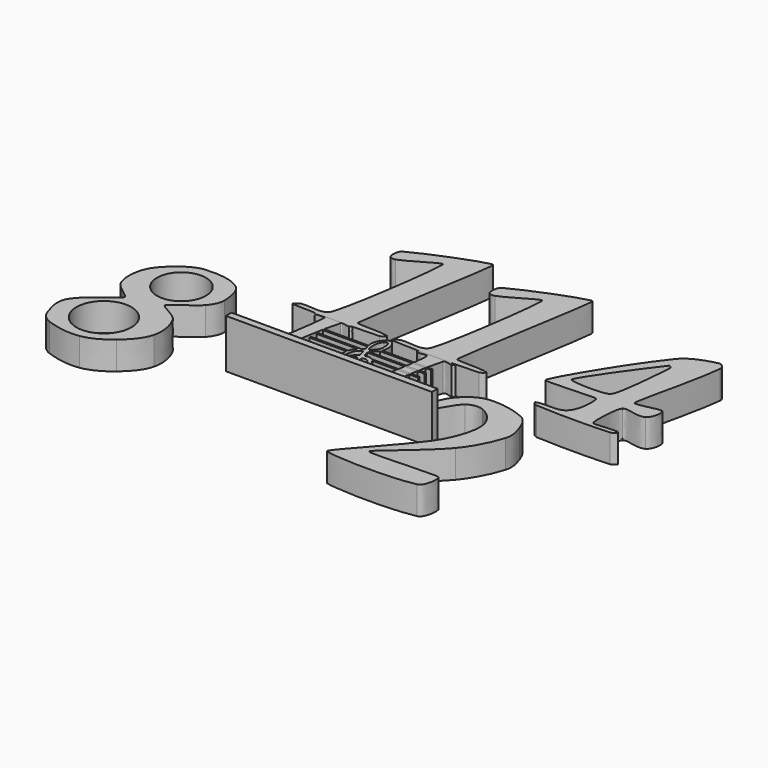
from build123d import *

# Parameters (mm, degrees)
F4_DEPTH = 25.4
F5_DEPTH = 25.4
F1_R     = 24.9308366
F1_R_2   = 22.1971108
F2_W     = 186.8282780051
F2_H     = 44.2998670042
F6_DEPTH = 6.35
F7_DEPTH = 25.4


with BuildPart() as f4:
    # F0 (on Top) → F4 (new body)
    with BuildSketch(Plane.XY):
        with BuildLine():
            add(Edge.make_bspline(
                [(-32.6432462751, 65.6443213622), (-44.1354762751, 66.3625825622), (-55.6949908751, 66.3625825622), (-67.1872462751, 65.6443213622)],
                knots=[0, 0, 0, 0, 1, 1, 1, 1], degree=3))
            add(Edge.make_bspline(
                [(-67.1872462751, 65.6443213622), (-68.1432768751, 65.5845805622), (-66.0956304751, 63.7945409622), (-65.1552208751, 63.6123213622)],
                knots=[0, 0, 0, 0, 1, 1, 1, 1], degree=3))
            add(Edge.make_bspline(
                [(-65.1552208751, 63.6123213622), (-62.3885004751, 63.0762035622), (-57.6574710751, 64.7351791622), (-56.7006530751, 63.6123213622)],
                knots=[0, 0, 0, 0, 1, 1, 1, 1], degree=3))
            add(Edge.make_bspline(
                [(-56.7006530751, 63.6123213622), (-55.7438350751, 62.4894635622), (-61.0956404751, 22.5114129622), (-66.4977886751, 2.6523213622)],
                knots=[0, 0, 0, 0, 1, 1, 1, 1], degree=3))
            add(Edge.make_bspline(
                [(-66.4977886751, 2.6523213622), (-67.0914882751, 0.4698009622), (-71.2034942751, 3.5413721622), (-73.2832462751, 2.6523213622)],
                knots=[0, 0, 0, 0, 1, 1, 1, 1], degree=3))
            add(Edge.make_bspline(
                [(-73.2832462751, 2.6523213622), (-74.1640420751, 2.2758171622), (-72.2083690751, 0.6580149622), (-71.2512208751, 0.6203213622)],
                knots=[0, 0, 0, 0, 1, 1, 1, 1], degree=3))
            add(Edge.make_bspline(
                [(-71.2512208751, 0.6203213622), (-54.7419320751, -0.0298424378), (-24.3738952751, -1.5534868378), (-21.6849242751, 0.6203213622)],
                knots=[0, 0, 0, 0, 1, 1, 1, 1], degree=3))
            add(Edge.make_bspline(
                [(-21.6849242751, 0.6203213622), (-19.8098565819, 2.1361711164), (-18.4581025239, 8.4378642489), (-18.1628819907, 12.4698554388)],
                knots=[0, 0, 0, 0, 0.6973245175, 0.6973245175, 0.6973245175, 0.6973245175], degree=3))
            add(Edge.make_bspline(
                [(-18.1628819966, 12.4698554372), (-19.3981728383, 13.6238819708), (-20.6040058907, 14.8091822158), (-21.7818028483, 16.0185614655)],
                knots=[0.6288524515, 0.6288524515, 0.6288524515, 0.6288524515, 0.9415855382, 0.9415855382, 0.9415855382, 0.9415855382], degree=3))
            add(Edge.make_bspline(
                [(-21.7818028483, 16.0185614655), (-22.4864702455, 15.7501863197), (-23.1208967553, 15.3420315606), (-23.4992208751, 14.8443213622)],
                knots=[0.6379697053, 0.6379697053, 0.6379697053, 0.6379697053, 1, 1, 1, 1], degree=3))
            add(Edge.make_bspline(
                [(-23.4992208751, 14.8443213622), (-25.4041192751, 12.3383065622), (-23.1287618751, 6.8219599622), (-26.0935260751, 5.7642277622)],
                knots=[0, 0, 0, 0, 1, 1, 1, 1], degree=3))
            add(Edge.make_bspline(
                [(-26.0935260751, 5.7642277622), (-34.2728848751, 2.8460471622), (-51.1425488751, 3.5293325622), (-52.1219474751, 4.6325561622)],
                knots=[0, 0, 0, 0, 1, 1, 1, 1], degree=3))
            add(Edge.make_bspline(
                [(-52.1219474751, 4.6325561622), (-53.1013460751, 5.7357543622), (-48.1215744751, 44.5091845622), (-42.4707094751, 63.6123213622)],
                knots=[0, 0, 0, 0, 1, 1, 1, 1], degree=3))
            add(Edge.make_bspline(
                [(-42.4707094751, 63.6123213622), (-41.7336268751, 66.1040867622), (-37.2198944751, 63.0861603622), (-34.6752208751, 63.6123213622)],
                knots=[0, 0, 0, 0, 1, 1, 1, 1], degree=3))
            add(Edge.make_bspline(
                [(-34.6752208751, 63.6123213622), (-33.7371734751, 63.8062757622), (-31.6872156751, 65.5845805622), (-32.6432462751, 65.6443213622)],
                knots=[0, 0, 0, 0, 1, 1, 1, 1], degree=3))
        make_face()
        with BuildLine():
            add(Edge.make_bspline(
                [(-18.1628819966, 12.4698554372), (-19.3981728383, 13.6238819708), (-20.6040058907, 14.8091822158), (-21.7818028483, 16.0185614655)],
                knots=[0.6288524515, 0.6288524515, 0.6288524515, 0.6288524515, 0.9415855382, 0.9415855382, 0.9415855382, 0.9415855382], degree=3))
            add(Edge.make_bspline(
                [(-18.1628819907, 12.4698554388), (-18.0347407665, 14.2199514818), (-18.1056521625, 15.5424320176), (-18.4192208751, 15.8603213622)],
                knots=[0.6973245175, 0.6973245175, 0.6973245175, 0.6973245175, 1, 1, 1, 1], degree=3))
            add(Edge.make_bspline(
                [(-18.4192208751, 15.8603213622), (-19.0801509824, 16.5303583595), (-20.540038117, 16.491492088), (-21.7818028483, 16.0185614655)],
                knots=[0, 0, 0, 0, 0.6379697053, 0.6379697053, 0.6379697053, 0.6379697053], degree=3))
        make_face()
    extrude(amount=F4_DEPTH)


with BuildPart() as f4b:
    # F0 (on Top) → F4, piece 2 (new body)
    with BuildSketch(Plane.XY):
        with BuildLine():
            add(Edge.make_bspline(
                [(35.1863206689, 45.5576819403), (35.0803489887, 44.3192502031), (34.9064911878, 43.0821286278), (34.6733469484, 41.8537417058)],
                knots=[0.3376179857, 0.3376179857, 0.3376179857, 0.3376179857, 0.5341609141, 0.5341609141, 0.5341609141, 0.5341609141], degree=3))
            add(Edge.make_bspline(
                [(34.6733469484, 41.8537417058), (32.8149733843, 28.8095531023), (29.9821658821, 12.683253434), (26.9640855944, 2.2289039355)],
                knots=[0.4712886568, 0.4712886568, 0.4712886568, 0.4712886568, 1, 1, 1, 1], degree=3))
            add(Edge.make_bspline(
                [(26.9640855944, 2.2289039355), (26.2428017944, -0.2695670645), (21.6154297944, 3.0927833355), (19.1626025944, 2.2289039355)],
                knots=[0, 0, 0, 0, 1, 1, 1, 1], degree=3))
            add(Edge.make_bspline(
                [(19.1626025944, 2.2289039355), (18.2590991944, 1.9106927355), (20.2374543944, 0.2338609355), (21.1946533944, 0.1969039355)],
                knots=[0, 0, 0, 0, 1, 1, 1, 1], degree=3))
            add(Edge.make_bspline(
                [(21.1946533944, 0.1969039355), (38.0428543944, -0.4537932645), (69.0879789944, -1.9769042645), (71.7769499944, 0.1969039355)],
                knots=[0, 0, 0, 0, 1, 1, 1, 1], degree=3))
            add(Edge.make_bspline(
                [(71.7769499944, 0.1969039355), (74.4658955944, 2.3707121355), (76.0786431944, 14.3866393355), (75.0426533944, 15.4369039355)],
                knots=[0, 0, 0, 0, 1, 1, 1, 1], degree=3))
            add(Edge.make_bspline(
                [(75.0426533944, 15.4369039355), (74.0066635944, 16.4871685355), (71.0076601944, 15.7956789355), (69.9626533944, 14.4209039355)],
                knots=[0, 0, 0, 0, 1, 1, 1, 1], degree=3))
            add(Edge.make_bspline(
                [(69.9626533944, 14.4209039355), (68.0577549944, 11.9148891355), (70.3331123944, 6.3985425355), (67.3683481944, 5.3408103355)],
                knots=[0, 0, 0, 0, 1, 1, 1, 1], degree=3))
            add(Edge.make_bspline(
                [(67.3683481944, 5.3408103355), (59.1889893944, 2.4226297355), (42.3193253944, 3.1059151355), (41.3399267944, 4.2091387355)],
                knots=[0, 0, 0, 0, 1, 1, 1, 1], degree=3))
            add(Edge.make_bspline(
                [(41.3399267944, 4.2091387355), (40.3605281944, 5.3123369355), (45.3402997944, 44.0857671355), (50.9911647944, 63.1889039355)],
                knots=[0, 0, 0, 0, 1, 1, 1, 1], degree=3))
            add(Edge.make_bspline(
                [(50.9911647944, 63.1889039355), (51.7282473944, 65.6806693355), (56.2419797944, 62.6627429355), (58.7866533944, 63.1889039355)],
                knots=[0, 0, 0, 0, 1, 1, 1, 1], degree=3))
            add(Edge.make_bspline(
                [(58.7866533944, 63.1889039355), (59.7247007944, 63.3828583355), (61.7746331944, 65.1611631355), (60.8186279944, 65.2209039355)],
                knots=[0, 0, 0, 0, 1, 1, 1, 1], degree=3))
            add(Edge.make_bspline(
                [(60.8186279944, 65.2209039355), (49.8606082448, 65.9057756288), (38.8414372483, 65.9376129716), (27.8777540938, 65.3164159639)],
                knots=[0, 0, 0, 0, 0.95351342, 0.95351342, 0.95351342, 0.95351342], degree=3))
            add(Edge.make_bspline(
                [(27.8777540938, 65.3164159639), (28.7224174898, 64.6424291633), (29.5399042024, 63.9042802803), (30.2730549469, 63.0963071754)],
                knots=[0.0094564555, 0.0094564555, 0.0094564555, 0.0094564555, 0.5098637585, 0.5098637585, 0.5098637585, 0.5098637585], degree=3))
            add(Edge.make_bspline(
                [(30.273054947, 63.0963071757), (32.9070296559, 63.2304379456), (36.0069234138, 64.0740975109), (36.7612211944, 63.1889039355)],
                knots=[0.211660127, 0.211660127, 0.211660127, 0.211660127, 1, 1, 1, 1], degree=3))
            add(Edge.make_bspline(
                [(36.7612211944, 63.1889039355), (37.1630463854, 62.7173486869), (36.5062502185, 55.3779092647), (35.1863206689, 45.5576819403)],
                knots=[0, 0, 0, 0, 0.4199598993, 0.4199598993, 0.4199598993, 0.4199598993], degree=3))
        make_face()
        with BuildLine():
            add(Edge.make_bspline(
                [(28.3066533944, 63.1889039355), (28.8922577857, 63.0754291739), (29.5658632387, 63.0602946171), (30.273054947, 63.0963071757)],
                knots=[0, 0, 0, 0, 0.211660127, 0.211660127, 0.211660127, 0.211660127], degree=3))
            add(Edge.make_bspline(
                [(27.8777540938, 65.3164159639), (28.7224174898, 64.6424291633), (29.5399042024, 63.9042802803), (30.2730549469, 63.0963071754)],
                knots=[0.0094564555, 0.0094564555, 0.0094564555, 0.0094564555, 0.5098637585, 0.5098637585, 0.5098637585, 0.5098637585], degree=3))
            add(Edge.make_bspline(
                [(27.8777540938, 65.3164159639), (27.3432423358, 65.2861307851), (26.808862464, 65.2542934423), (26.2746279944, 65.2209039355)],
                knots=[0.95351342, 0.95351342, 0.95351342, 0.95351342, 1, 1, 1, 1], degree=3))
            add(Edge.make_bspline(
                [(26.2746279944, 65.2209039355), (25.3185719944, 65.1611631355), (27.3662437944, 63.3711235355), (28.3066533944, 63.1889039355)],
                knots=[0, 0, 0, 0, 1, 1, 1, 1], degree=3))
        make_face()
    extrude(amount=F4_DEPTH)


with BuildPart() as f5:
    # F1 (on Top) → F5 (new body)
    with BuildSketch(Plane.XY):
        with BuildLine():
            add(Edge.make_bspline(
                [(-33.0519448948, 72.0116292463), (-34.8625330948, 74.3119548463), (-11.6754064948, 199.5780746463), (-13.9607460948, 201.4075350463)],
                knots=[0, 0, 0, 0, 1, 1, 1, 1], degree=3))
            add(Edge.make_bspline(
                [(-13.9607460948, 201.4075350463), (-16.2461110948, 203.2369700463), (-56.7700584948, 187.8922458463), (-76.4535344948, 177.3718198463)],
                knots=[0, 0, 0, 0, 1, 1, 1, 1], degree=3))
            add(Edge.make_bspline(
                [(-76.4535344948, 177.3718198463), (-79.7291946948, 175.6210486463), (-80.0935322948, 170.1558830463), (-79.1559674948, 166.5619862463)],
                knots=[0, 0, 0, 0, 1, 1, 1, 1], degree=3))
            add(Edge.make_bspline(
                [(-79.1559674948, 166.5619862463), (-78.6195448948, 164.5056022463), (-75.1051754948, 163.8205388463), (-73.1075924948, 164.5458358463)],
                knots=[0, 0, 0, 0, 1, 1, 1, 1], degree=3))
            add(Edge.make_bspline(
                [(-73.1075924948, 164.5458358463), (-62.3296104948, 168.4592900463), (-44.7002070948, 181.6612702463), (-42.3397850948, 179.9297522463)],
                knots=[0, 0, 0, 0, 1, 1, 1, 1], degree=3))
            add(Edge.make_bspline(
                [(-42.3397850948, 179.9297522463), (-39.9793630948, 178.1982342463), (-53.9515728948, 77.4586846463), (-59.5848102948, 72.1483066463)],
                knots=[0, 0, 0, 0, 1, 1, 1, 1], degree=3))
            add(Edge.make_bspline(
                [(-59.5848102948, 72.1483066463), (-65.2180476948, 66.8379286463), (-75.4846006948, 71.5699486463), (-83.1882428948, 69.7879862463)],
                knots=[0, 0, 0, 0, 1, 1, 1, 1], degree=3))
            add(Edge.make_bspline(
                [(-83.1882428948, 69.7879862463), (-85.0401568948, 69.3595898463), (-89.1185332948, 65.8583268463), (-87.2204928948, 65.7557362463)],
                knots=[0, 0, 0, 0, 1, 1, 1, 1], degree=3))
            add(Edge.make_bspline(
                [(-87.2204928948, 65.7557362463), (-61.0490694948, 64.3410578463), (-34.7748522948, 64.5801480463), (-8.5915924948, 65.7557362463)],
                knots=[0, 0, 0, 0, 1, 1, 1, 1], degree=3))
            add(Edge.make_bspline(
                [(-8.5915924948, 65.7557362463), (-6.8509558948, 65.8338666463), (-3.2073766948, 69.0202204463), (-4.8954352948, 69.4519696463)],
                knots=[0, 0, 0, 0, 1, 1, 1, 1], degree=3))
            add(Edge.make_bspline(
                [(-4.8954352948, 69.4519696463), (-14.0257446948, 71.7871186463), (-31.2413566948, 69.7113036463), (-33.0519448948, 72.0116292463)],
                knots=[0, 0, 0, 0, 1, 1, 1, 1], degree=3))
        make_face()
    extrude(amount=F5_DEPTH)


with BuildPart() as f5b:
    # F1 (on Top) → F5, piece 2 (new body)
    with BuildSketch(Plane.XY):
        with BuildLine():
            add(Edge.make_bspline(
                [(56.6648574563, 72.4326988088), (54.8542692563, 74.7330244088), (78.0413958563, 199.9991442088), (75.7560562563, 201.8286046088)],
                knots=[0, 0, 0, 0, 1, 1, 1, 1], degree=3))
            add(Edge.make_bspline(
                [(75.7560562563, 201.8286046088), (73.4706912563, 203.6580396088), (32.9467438563, 188.3133154088), (13.2632678563, 177.7928894088)],
                knots=[0, 0, 0, 0, 1, 1, 1, 1], degree=3))
            add(Edge.make_bspline(
                [(13.2632678563, 177.7928894088), (9.9876076563, 176.0421182088), (9.6232700563, 170.5769526088), (10.5608348563, 166.9830558088)],
                knots=[0, 0, 0, 0, 1, 1, 1, 1], degree=3))
            add(Edge.make_bspline(
                [(10.5608348563, 166.9830558088), (11.0972574563, 164.9266718088), (14.6116268563, 164.2416084088), (16.6092098563, 164.9669054088)],
                knots=[0, 0, 0, 0, 1, 1, 1, 1], degree=3))
            add(Edge.make_bspline(
                [(16.6092098563, 164.9669054088), (27.3871918563, 168.8803596088), (45.0165952563, 182.0823398088), (47.3770172563, 180.3508218088)],
                knots=[0, 0, 0, 0, 1, 1, 1, 1], degree=3))
            add(Edge.make_bspline(
                [(47.3770172563, 180.3508218088), (49.7374392563, 178.6193038088), (35.7652294563, 77.8797542088), (30.1319920563, 72.5693762088)],
                knots=[0, 0, 0, 0, 1, 1, 1, 1], degree=3))
            add(Edge.make_bspline(
                [(30.1319920563, 72.5693762088), (24.4987546563, 67.2589982088), (14.2322016563, 71.9910182088), (6.5285594563, 70.2090558088)],
                knots=[0, 0, 0, 0, 1, 1, 1, 1], degree=3))
            add(Edge.make_bspline(
                [(6.5285594563, 70.2090558088), (4.6766454563, 69.7806594088), (0.5982690563, 66.2793964088), (2.4963094563, 66.1768058088)],
                knots=[0, 0, 0, 0, 1, 1, 1, 1], degree=3))
            add(Edge.make_bspline(
                [(2.4963094563, 66.1768058088), (28.6677328563, 64.7621274088), (54.9419500563, 65.0012176088), (81.1252098563, 66.1768058088)],
                knots=[0, 0, 0, 0, 1, 1, 1, 1], degree=3))
            add(Edge.make_bspline(
                [(81.1252098563, 66.1768058088), (82.8658464563, 66.2549362088), (86.5094256563, 69.4412900088), (84.8213670563, 69.8730392088)],
                knots=[0, 0, 0, 0, 1, 1, 1, 1], degree=3))
            add(Edge.make_bspline(
                [(84.8213670563, 69.8730392088), (75.6910576563, 72.2081882088), (58.4754456563, 70.1323732088), (56.6648574563, 72.4326988088)],
                knots=[0, 0, 0, 0, 1, 1, 1, 1], degree=3))
        make_face()
    extrude(amount=F5_DEPTH)


with BuildPart() as f5c:
    # F1 (on Top) → F5, piece 3 (new body)
    with BuildSketch(Plane.XY):
        with BuildLine():
            add(Edge.make_bspline(
                [(205.1756465358, 183.2566057593), (207.9511045358, 183.9096397593), (211.5074347358, 180.0453345593), (211.2240215358, 177.2082053593)],
                knots=[0, 0, 0, 0, 1, 1, 1, 1], degree=3))
            add(Edge.make_bspline(
                [(176.9499219358, 169.1437307593), (183.6466065358, 177.2558049593), (194.9361699358, 180.8473141593), (205.1756465358, 183.2566057593)],
                knots=[0, 0, 0, 0, 1, 1, 1, 1], degree=3))
            add(Edge.make_bspline(
                [(125.2867029358, 86.4825803593), (123.8675795358, 89.0430273593), (156.2643905358, 144.0861735593), (176.9499219358, 169.1437307593)],
                knots=[0, 0, 0, 0, 1, 1, 1, 1], degree=3))
            add(Edge.make_bspline(
                [(171.2375381358, 86.4826057593), (169.3453397358, 88.7162817593), (126.7058263358, 83.9221587593), (125.2867029358, 86.4825803593)],
                knots=[0, 0, 0, 0, 1, 1, 1, 1], degree=3))
            add(Edge.make_bspline(
                [(166.8692715358, 60.2729553593), (173.0383219358, 66.6282893593), (173.1297619358, 84.2489297593), (171.2375381358, 86.4826057593)],
                knots=[0, 0, 0, 0, 1, 1, 1, 1], degree=3))
            add(Edge.make_bspline(
                [(141.2799399358, 55.6203611593), (149.4275995358, 58.5831441593), (160.8307771358, 54.0521143593), (166.8692715358, 60.2729553593)],
                knots=[0, 0, 0, 0, 1, 1, 1, 1], degree=3))
            add(Edge.make_bspline(
                [(144.6919219358, 52.2084553593), (143.0854227358, 52.2868397593), (139.7683859358, 55.0707051593), (141.2799399358, 55.6203611593)],
                knots=[0, 0, 0, 0, 1, 1, 1, 1], degree=3))
            add(Edge.make_bspline(
                [(211.2240215358, 52.2084553593), (189.0827907358, 50.9432559593), (166.8429571358, 51.1279393593), (144.6919219358, 52.2084553593)],
                knots=[0, 0, 0, 0, 1, 1, 1, 1], degree=3))
            add(Edge.make_bspline(
                [(215.2562207358, 56.2407307593), (217.1125035358, 55.8317145593), (213.1217571358, 52.3169133593), (211.2240215358, 52.2084553593)],
                knots=[0, 0, 0, 0, 1, 1, 1, 1], degree=3))
            add(Edge.make_bspline(
                [(192.9238295358, 56.2407053593), (194.9128527358, 54.0928051593), (207.9864613358, 57.8425309593), (215.2562207358, 56.2407307593)],
                knots=[0, 0, 0, 0, 1, 1, 1, 1], degree=3))
            add(Edge.make_bspline(
                [(195.2501139358, 86.4826057593), (192.0524317358, 83.5214483593), (190.9348063358, 58.3886055593), (192.9238295358, 56.2407053593)],
                knots=[0, 0, 0, 0, 1, 1, 1, 1], degree=3))
            add(Edge.make_bspline(
                [(216.2643721358, 86.4825803593), (210.2183593358, 82.9453255593), (198.4477961358, 89.4437377593), (195.2501139358, 86.4826057593)],
                knots=[0, 0, 0, 0, 1, 1, 1, 1], degree=3))
            add(Edge.make_bspline(
                [(219.8645427358, 100.8834659593), (221.7909549358, 98.6792285593), (220.5351535358, 88.9812545593), (216.2643721358, 86.4825803593)],
                knots=[0, 0, 0, 0, 1, 1, 1, 1], degree=3))
            add(Edge.make_bspline(
                [(196.6898875358, 98.3085155593), (198.6845495358, 96.1658477593), (217.9381305358, 103.0877287593), (219.8645427358, 100.8834659593)],
                knots=[0, 0, 0, 0, 1, 1, 1, 1], degree=3))
            add(Edge.make_bspline(
                [(211.2240215358, 177.2082053593), (208.5658607358, 150.5982509593), (194.6952001358, 100.4512087593), (196.6898875358, 98.3085155593)],
                knots=[0, 0, 0, 0, 1, 1, 1, 1], degree=3))
        make_face()
        with BuildLine():
            add(Edge.make_bspline(
                [(139.2915771358, 98.5793303593), (137.9208407358, 101.1660155593), (165.0661001358, 139.2422411593), (179.7810313358, 158.2480451593)],
                knots=[0, 0, 0, 0, 1, 1, 1, 1], degree=3))
            add(Edge.make_bspline(
                [(179.7810313358, 158.2480451593), (180.7095029358, 159.4472299593), (183.1285989358, 156.5418509593), (182.9982969358, 155.0308557593)],
                knots=[0, 0, 0, 0, 1, 1, 1, 1], degree=3))
            add(Edge.make_bspline(
                [(182.9982969358, 155.0308557593), (181.3638069358, 136.0786457593), (178.9269563358, 102.2821931593), (174.6350929358, 98.5793303593)],
                knots=[0, 0, 0, 0, 1, 1, 1, 1], degree=3))
            add(Edge.make_bspline(
                [(174.6350929358, 98.5793303593), (170.3432549358, 94.8764675593), (140.6623135358, 95.9926705593), (139.2915771358, 98.5793303593)],
                knots=[0, 0, 0, 0, 1, 1, 1, 1], degree=3))
        make_face(mode=Mode.SUBTRACT)
    extrude(amount=F5_DEPTH)


with BuildPart() as f5d:
    # F1 (on Top) → F5, piece 4 (new body)
    with BuildSketch(Plane.XY):
        with BuildLine():
            add(Edge.make_bspline(
                [(-168.7701688087, 68.1581004942), (-157.8623420087, 68.9971386942), (-145.4745842087, 68.3834238942), (-136.5121688087, 62.1097254942)],
                knots=[0, 0, 0, 0, 1, 1, 1, 1], degree=3))
            add(Edge.make_bspline(
                [(-188.9313934087, 58.0774500942), (-183.1313796087, 62.8539454942), (-176.2616702087, 67.5818252942), (-168.7701688087, 68.1581004942)],
                knots=[0, 0, 0, 0, 1, 1, 1, 1], degree=3))
            add(Edge.make_bspline(
                [(-203.0442684087, 39.9323250942), (-200.6212100087, 47.2015764942), (-194.8462914087, 53.2063904942), (-188.9313934087, 58.0774500942)],
                knots=[0, 0, 0, 0, 1, 1, 1, 1], degree=3))
            add(Edge.make_bspline(
                [(-203.0442684087, 15.7388250942), (-206.0393602087, 23.2265418942), (-205.5945046087, 32.2816926942), (-203.0442684087, 39.9323250942)],
                knots=[0, 0, 0, 0, 1, 1, 1, 1], degree=3))
            add(Edge.make_bspline(
                [(-186.9152938087, -0.3901495058), (-186.8648240087, 2.5368194942), (-200.2204996087, 8.6793776942), (-203.0442684087, 15.7388250942)],
                knots=[0, 0, 0, 0, 1, 1, 1, 1], degree=3))
            add(Edge.make_bspline(
                [(-217.1571688087, -28.6159249058), (-210.6197168087, -16.4749789058), (-186.9657382087, -3.3171439058), (-186.9152938087, -0.3901495058)],
                knots=[0, 0, 0, 0, 1, 1, 1, 1], degree=3))
            add(Edge.make_bspline(
                [(-215.1410184087, -52.8093995058), (-217.8343582087, -45.1782997058), (-220.9937880087, -35.7410821058), (-217.1571688087, -28.6159249058)],
                knots=[0, 0, 0, 0, 1, 1, 1, 1], degree=3))
            add(Edge.make_bspline(
                [(-205.0604188087, -62.8900245058), (-209.5456778087, -61.3202029058), (-213.5594620087, -57.2905437058), (-215.1410184087, -52.8093995058)],
                knots=[0, 0, 0, 0, 1, 1, 1, 1], degree=3))
            add(Edge.make_bspline(
                [(-174.8185438087, -66.9222999058), (-184.8785694087, -68.4126703058), (-195.4615302087, -66.2496571058), (-205.0604188087, -62.8900245058)],
                knots=[0, 0, 0, 0, 1, 1, 1, 1], degree=3))
            add(Edge.make_bspline(
                [(-150.6250184087, -54.8255499058), (-157.4949818087, -60.6649845058), (-165.8994862087, -65.6009411058), (-174.8185438087, -66.9222999058)],
                knots=[0, 0, 0, 0, 1, 1, 1, 1], degree=3))
            add(Edge.make_bspline(
                [(-134.4960438087, -32.6481495058), (-136.7129812087, -41.5160007058), (-143.6603384087, -48.9055465058), (-150.6250184087, -54.8255499058)],
                knots=[0, 0, 0, 0, 1, 1, 1, 1], degree=3))
            add(Edge.make_bspline(
                [(-138.5282684087, -6.4385245058), (-134.2684344087, -14.1836957058), (-132.3521822087, -24.0727539058), (-134.4960438087, -32.6481495058)],
                knots=[0, 0, 0, 0, 1, 1, 1, 1], degree=3))
            add(Edge.make_bspline(
                [(-156.6733934087, 7.6743250942), (-156.6372746087, 4.7471528942), (-142.2209712087, 0.2754320942), (-138.5282684087, -6.4385245058)],
                knots=[0, 0, 0, 0, 1, 1, 1, 1], degree=3))
            add(Edge.make_bspline(
                [(-134.4960438087, 25.8194754942), (-140.7857442087, 18.6312246942), (-156.7095376087, 10.6015226942), (-156.6733934087, 7.6743250942)],
                knots=[0, 0, 0, 0, 1, 1, 1, 1], degree=3))
            add(Edge.make_bspline(
                [(-128.4476688087, 39.9323250942), (-128.1637476087, 34.8220990942), (-131.1257178087, 29.6712330942), (-134.4960438087, 25.8194754942)],
                knots=[0, 0, 0, 0, 1, 1, 1, 1], degree=3))
            add(Edge.make_bspline(
                [(-136.5121688087, 62.1097254942), (-130.0680364087, 57.5988378942), (-128.8839900087, 47.7862844942), (-128.4476688087, 39.9323250942)],
                knots=[0, 0, 0, 0, 1, 1, 1, 1], degree=3))
        make_face()
        with Locations((-179.1020760087, -33.6361587058)):
            Circle(F1_R, mode=Mode.SUBTRACT)
        with Locations((-165.4273002087, 37.1542000942)):
            Circle(F1_R_2, mode=Mode.SUBTRACT)
    extrude(amount=F5_DEPTH)


with BuildPart() as f5e:
    # F1 (on Top) → F5, piece 5 (new body)
    with BuildSketch(Plane.XY):
        with BuildLine():
            add(Edge.make_bspline(
                [(112.4776736052, 37.8084045909), (124.0079782052, 39.0895297909), (136.1904278052, 36.5606549909), (146.7518240052, 31.7600041909)],
                knots=[0, 0, 0, 0, 1, 1, 1, 1], degree=3))
            add(Edge.make_bspline(
                [(92.3164236052, 25.7116545909), (97.3337364052, 31.7324197909), (104.6883318052, 36.9428995909), (112.4776736052, 37.8084045909)],
                knots=[0, 0, 0, 0, 1, 1, 1, 1], degree=3))
            add(Edge.make_bspline(
                [(82.2358240052, 1.5181545909), (83.5642694052, 10.1530877909), (86.7234452052, 19.0000347909), (92.3164236052, 25.7116545909)],
                knots=[0, 0, 0, 0, 1, 1, 1, 1], degree=3))
            add(Edge.make_bspline(
                [(88.2841990052, -0.4979704091), (86.7116850052, -1.9275332091), (81.9126598052, -0.5823238091), (82.2358240052, 1.5181545909)],
                knots=[0, 0, 0, 0, 1, 1, 1, 1], degree=3))
            add(Edge.make_bspline(
                [(104.4131736052, 21.6794045909), (97.2754434052, 15.9692051909), (95.0477872052, 5.6507599909), (88.2841990052, -0.4979704091)],
                knots=[0, 0, 0, 0, 1, 1, 1, 1], degree=3))
            add(Edge.make_bspline(
                [(118.5260486052, 23.6955295909), (114.1582392052, 25.5674333909), (108.1239104052, 24.6479787909), (104.4131736052, 21.6794045909)],
                knots=[0, 0, 0, 0, 1, 1, 1, 1], degree=3))
            add(Edge.make_bspline(
                [(132.6389490052, 9.5826545909), (130.1058578052, 15.7344075909), (124.6410224052, 21.0748337909), (118.5260486052, 23.6955295909)],
                knots=[0, 0, 0, 0, 1, 1, 1, 1], degree=3))
            add(Edge.make_bspline(
                [(132.6389490052, -10.5785954091), (134.3353134052, -4.0758144091), (135.1977450052, 3.3684175909), (132.6389490052, 9.5826545909)],
                knots=[0, 0, 0, 0, 1, 1, 1, 1], degree=3))
            add(Edge.make_bspline(
                [(120.5421990052, -36.7882204091), (126.1128508052, -28.9425922091), (130.2100994052, -19.8891940091), (132.6389490052, -10.5785954091)],
                knots=[0, 0, 0, 0, 1, 1, 1, 1], degree=3))
            add(Edge.make_bspline(
                [(72.5152186052, -95.2558708091), (71.2641670052, -92.6092416091), (105.9405264052, -57.3529748091), (120.5421990052, -36.7882204091)],
                knots=[0, 0, 0, 0, 1, 1, 1, 1], degree=3))
            add(Edge.make_bspline(
                [(154.2402774052, -95.2558708091), (127.5736048052, -100.8233984091), (73.7662448052, -97.9025000091), (72.5152186052, -95.2558708091)],
                knots=[0, 0, 0, 0, 1, 1, 1, 1], degree=3))
            add(Edge.make_bspline(
                [(159.4245952052, -77.1107204091), (161.1874568052, -79.4478252091), (160.3979232052, -93.9702498091), (154.2402774052, -95.2558708091)],
                knots=[0, 0, 0, 0, 1, 1, 1, 1], degree=3))
            add(Edge.make_bspline(
                [(96.2478864052, -77.1107458091), (97.3350826052, -79.8287744091), (157.6617082052, -74.7736410091), (159.4245952052, -77.1107204091)],
                knots=[0, 0, 0, 0, 1, 1, 1, 1], degree=3))
            add(Edge.make_bspline(
                [(140.7034490052, -34.7721208091), (127.7552910052, -50.6184696091), (95.1606648052, -74.3926918091), (96.2478864052, -77.1107458091)],
                knots=[0, 0, 0, 0, 1, 1, 1, 1], degree=3))
            add(Edge.make_bspline(
                [(158.8485740052, -0.4979704091), (155.0469306052, -12.8533178091), (148.8828332052, -24.7619046091), (140.7034490052, -34.7721208091)],
                knots=[0, 0, 0, 0, 1, 1, 1, 1], degree=3))
            add(Edge.make_bspline(
                [(156.8324236052, 17.6471291909), (158.9692240052, 11.9490201909), (160.6382580052, 5.3185025909), (158.8485740052, -0.4979704091)],
                knots=[0, 0, 0, 0, 1, 1, 1, 1], degree=3))
            add(Edge.make_bspline(
                [(146.7518240052, 31.7600041909), (152.0147548052, 29.3677813909), (154.8025572052, 23.0601739909), (156.8324236052, 17.6471291909)],
                knots=[0, 0, 0, 0, 1, 1, 1, 1], degree=3))
        make_face()
    extrude(amount=F5_DEPTH)


with BuildPart() as f6:
    # F2 (on Front) → F6 (new body)
    with BuildSketch(Plane.XZ):
        with Locations((3.1736679375, 22.1499335021)):
            Rectangle(F2_W, F2_H)
    extrude(amount=F6_DEPTH)


with BuildPart() as f7:
    # F3 (on Top) → F7 (new body)
    with BuildSketch(Plane.XY):
        with BuildLine():
            Line((-45.7475744188, 47.8342100978), (-5.3054494783, 47.8342100978))
            add(Edge.make_bspline(
                [(-5.3054494783, 47.8342100978), (-5.3850890997, 48.4239257044), (-5.4929617028, 48.9751349544), (-5.6020469496, 49.5116189122)],
                knots=[0, 0, 0, 0, 0.0426605521, 0.0426605521, 0.0426605521, 0.0426605521], degree=3))
            Line((-5.6020469496, 49.5116189122), (-45.7475744188, 49.5116189122))
            Line((-45.7475744188, 49.5116189122), (-45.7475744188, 47.8342100978))
        make_face()
        with BuildLine():
            Line((-2.6859711354, 47.8342100978), (-5.3054494783, 47.8342100978))
            add(Edge.make_bspline(
                [(-5.3054494783, 47.8342100978), (-3.7335010548, 44.0209195582), (-4.4099408043, 43.8634679662), (-6.1301567721, 42.6065711263), (-6.6136083481, 42.2105565667)],
                knots=[0, 0, 0, 0, 0.1449805571, 0.1959886185, 0.1959886185, 0.1959886185, 0.1959886185], degree=3))
            Line((-6.6136083481, 42.2105565667), (0.2257280477, 42.2105565667))
            add(Edge.make_bspline(
                [(6.3266797342, 47.8342100978), (6.121518698, 47.4056326224), (4.6244807745, 44.8055738122), (2.4926460483, 44.5770012536), (0.2257280477, 42.2105565667)],
                knots=[0.7903888115, 0.7903888115, 0.7903888115, 0.7903888115, 0.8206802612, 0.9942756991, 0.9942756991, 0.9942756991, 0.9942756991], degree=3))
            Line((6.3266797342, 47.8342100978), (2.3773211441, 47.8342100978))
            add(Edge.make_bspline(
                [(-2.6859711354, 47.8342100978), (-2.4862501748, 46.427415348), (-1.6554035664, 43.4504141959), (1.153975862, 46.3579674892), (2.3241833168, 47.7693921169), (2.3773211441, 47.8342100978)],
                knots=[0.3369724858, 0.3369724858, 0.3369724858, 0.3369724858, 0.4326938229, 0.5660101239, 0.5724841887, 0.5724841887, 0.5724841887, 0.5724841887], degree=3))
        make_face()
        with BuildLine():
            add(Edge.make_bspline(
                [(-5.3054494783, 47.8342100978), (-5.3850890997, 48.4239257044), (-5.4929617028, 48.9751349544), (-5.6020469496, 49.5116189122)],
                knots=[0, 0, 0, 0, 0.0426605521, 0.0426605521, 0.0426605521, 0.0426605521], degree=3))
            Line((-5.3054494783, 47.8342100978), (-2.6859711354, 47.8342100978))
            add(Edge.make_bspline(
                [(-2.8639047037, 49.5116189122), (-2.8198394655, 48.9616558041), (-2.7642298061, 48.3854486199), (-2.6859711354, 47.8342100978)],
                knots=[0.2994650324, 0.2994650324, 0.2994650324, 0.2994650324, 0.3369724858, 0.3369724858, 0.3369724858, 0.3369724858], degree=3))
            Line((-2.8639047037, 49.5116189122), (-5.6020469496, 49.5116189122))
        make_face()
        with BuildLine():
            add(Edge.make_bspline(
                [(-5.6020469496, 49.5116189122), (-5.9371940518, 51.1598807001), (-6.8817210551, 55.2728885258), (0.4110962092, 67.7614702344), (8.365919795, 60.3698905158), (7.8634332938, 52.367228559), (6.9755916063, 49.5116189122)],
                knots=[0.0426605521, 0.0426605521, 0.0426605521, 0.0426605521, 0.1737283254, 0.3998427274, 0.5864757638, 0.75464235, 0.75464235, 0.75464235, 0.75464235], degree=3))
            Line((-5.6020469496, 49.5116189122), (-2.8639047037, 49.5116189122))
            add(Edge.make_bspline(
                [(0, 60.0638985634), (-1.325752595, 58.8838380831), (-3.0783165824, 54.9718418338), (-3.0415318587, 51.8317396538), (-2.8734494699, 49.6307438609), (-2.8639047037, 49.5116189122)],
                knots=[0, 0, 0, 0, 0.1477894714, 0.2913407176, 0.2994650324, 0.2994650324, 0.2994650324, 0.2994650324], degree=3))
            add(Edge.make_bspline(
                [(3.5451231653, 49.5116189122), (3.9737021068, 50.3032709628), (4.9063544894, 53.1840458737), (4.2459977554, 62.0872245548), (0.989886312, 60.9450024143), (0, 60.0638985634)],
                knots=[0.629729814, 0.629729814, 0.629729814, 0.629729814, 0.708676325, 0.8896515267, 1, 1, 1, 1], degree=3))
            Line((3.5451231653, 49.5116189122), (6.9755916063, 49.5116189122))
        make_face()
        with BuildLine():
            Line((0.2257280477, 42.2105565667), (-6.6136083481, 42.2105565667))
            add(Edge.make_bspline(
                [(-6.6136083481, 42.2105565667), (-7.1831729428, 41.7440033828), (-7.8023541401, 41.1818271588), (-8.4139968638, 40.5331477523)],
                knots=[0.1959886185, 0.1959886185, 0.1959886185, 0.1959886185, 0.2560823016, 0.2560823016, 0.2560823016, 0.2560823016], degree=3))
            Line((-8.4139968638, 40.5331477523), (0.2792187765, 40.5331477523))
            add(Edge.make_bspline(
                [(0, 41.9692322612), (0.0868971318, 41.5130839536), (0.1789940392, 41.0266901278), (0.2792187765, 40.5331477523)],
                knots=[0, 0, 0, 0, 0.0344863732, 0.0344863732, 0.0344863732, 0.0344863732], degree=3))
            add(Edge.make_bspline(
                [(0.2257280477, 42.2105565667), (0.1509765391, 42.1325231706), (0.0757337564, 42.0521282396), (0, 41.9692322612)],
                knots=[0.9942756991, 0.9942756991, 0.9942756991, 0.9942756991, 1, 1, 1, 1], degree=3))
        make_face()
        with BuildLine():
            add(Edge.make_bspline(
                [(-6.6136083481, 42.2105565667), (-7.1831729428, 41.7440033828), (-7.8023541401, 41.1818271588), (-8.4139968638, 40.5331477523)],
                knots=[0.1959886185, 0.1959886185, 0.1959886185, 0.1959886185, 0.2560823016, 0.2560823016, 0.2560823016, 0.2560823016], degree=3))
            Line((-6.6136083481, 42.2105565667), (-45.7810964435, 42.2105565667))
            Line((-45.7810964435, 42.2105565667), (-45.7810964435, 40.5331477523))
            Line((-45.7810964435, 40.5331477523), (-8.4139968638, 40.5331477523))
        make_face()
        with BuildLine():
            Line((52.4619817734, 49.5116189122), (6.9755916063, 49.5116189122))
            add(Edge.make_bspline(
                [(6.9755916063, 49.5116189122), (6.7868668463, 48.9046140229), (6.5687870329, 48.339967608), (6.3266797342, 47.8342100978)],
                knots=[0.75464235, 0.75464235, 0.75464235, 0.75464235, 0.7903888115, 0.7903888115, 0.7903888115, 0.7903888115], degree=3))
            Line((6.3266797342, 47.8342100978), (52.4619817734, 47.8342100978))
            Line((52.4619817734, 47.8342100978), (52.4619817734, 49.5116189122))
        make_face()
        with BuildLine():
            add(Edge.make_bspline(
                [(6.9755916063, 49.5116189122), (6.7868668463, 48.9046140229), (6.5687870329, 48.339967608), (6.3266797342, 47.8342100978)],
                knots=[0.75464235, 0.75464235, 0.75464235, 0.75464235, 0.7903888115, 0.7903888115, 0.7903888115, 0.7903888115], degree=3))
            Line((6.9755916063, 49.5116189122), (3.5451231653, 49.5116189122))
            add(Edge.make_bspline(
                [(2.3773211441, 47.8342100978), (2.847181766, 48.4073501441), (3.2343523764, 48.9375768666), (3.5451231653, 49.5116189122)],
                knots=[0.5724841887, 0.5724841887, 0.5724841887, 0.5724841887, 0.629729814, 0.629729814, 0.629729814, 0.629729814], degree=3))
            Line((2.3773211441, 47.8342100978), (6.3266797342, 47.8342100978))
        make_face()
        with BuildLine():
            Line((0.2792187765, 40.5331477523), (-8.4139968638, 40.5331477523))
            add(Edge.make_bspline(
                [(-8.4139968638, 40.5331477523), (-9.1544290942, 39.7478802732), (-10.580050051, 37.9652605887), (-11.5761095777, 35.7601631838), (-11.9559417839, 34.6153005958)],
                knots=[0.2560823016, 0.2560823016, 0.2560823016, 0.2560823016, 0.3288295086, 0.39827053, 0.39827053, 0.39827053, 0.39827053], degree=3))
            Line((-11.9559417839, 34.6153005958), (-8.5597130418, 34.6153005958))
            add(Edge.make_bspline(
                [(-5.5983648635, 38.9855392277), (-6.3412039904, 38.4178564077), (-7.1697329701, 37.8725463839), (-8.1690585247, 35.7383978837), (-8.5597130418, 34.6153005958)],
                knots=[0, 0, 0, 0, 0.0445774082, 0.0791331665, 0.0791331665, 0.0791331665, 0.0791331665], degree=3))
            add(Edge.make_bspline(
                [(-1.5333050319, 34.6153005958), (-1.4304228531, 34.9273858426), (-1.7006681693, 35.8039113635), (-2.7880400775, 38.91078645), (-2.8809804985, 41.1604508289), (-4.7978313058, 39.5973125326), (-5.5983648635, 38.9855392277)],
                knots=[0.8376075523, 0.8376075523, 0.8376075523, 0.8376075523, 0.8631344904, 0.9178694213, 0.9519603776, 1, 1, 1, 1], degree=3))
            Line((-1.5333050319, 34.6153005958), (9.3682042625, 34.6153005958))
            add(Edge.make_bspline(
                [(0.2792187765, 40.5331477523), (0.715467653, 38.3849025924), (1.8300295104, 34.0725748626), (5.2754511232, 36.7972669552), (8.1798582448, 35.5492655611), (9.3682042625, 34.6153005958)],
                knots=[0.0344863732, 0.0344863732, 0.0344863732, 0.0344863732, 0.1845954379, 0.3179406763, 0.4213173669, 0.4213173669, 0.4213173669, 0.4213173669], degree=3))
        make_face()
        with BuildLine():
            Line((52.4284597486, 42.2105565667), (0.2257280477, 42.2105565667))
            add(Edge.make_bspline(
                [(0.2257280477, 42.2105565667), (0.1509765391, 42.1325231706), (0.0757337564, 42.0521282396), (0, 41.9692322612)],
                knots=[0.9942756991, 0.9942756991, 0.9942756991, 0.9942756991, 1, 1, 1, 1], degree=3))
            add(Edge.make_bspline(
                [(0, 41.9692322612), (0.0868971318, 41.5130839536), (0.1789940392, 41.0266901278), (0.2792187765, 40.5331477523)],
                knots=[0, 0, 0, 0, 0.0344863732, 0.0344863732, 0.0344863732, 0.0344863732], degree=3))
            Line((0.2792187765, 40.5331477523), (52.4284597486, 40.5331477523))
            Line((52.4284597486, 40.5331477523), (52.4284597486, 42.2105565667))
        make_face()
        with BuildLine():
            Line((-8.5597130418, 34.6153005958), (-11.9559417839, 34.6153005958))
            add(Edge.make_bspline(
                [(-11.9559417839, 34.6153005958), (-12.1367309787, 34.0703789643), (-12.2933661783, 33.5100632333), (-12.425398486, 32.9378917813)],
                knots=[0.39827053, 0.39827053, 0.39827053, 0.39827053, 0.431322457, 0.431322457, 0.431322457, 0.431322457], degree=3))
            Line((-12.425398486, 32.9378917813), (-9.0666027157, 32.9378917813))
            add(Edge.make_bspline(
                [(-8.5597130418, 34.6153005958), (-8.7411561748, 34.0936675885), (-8.9127344184, 33.5307969966), (-9.0666027157, 32.9378917813)],
                knots=[0.0791331665, 0.0791331665, 0.0791331665, 0.0791331665, 0.0951829106, 0.0951829106, 0.0951829106, 0.0951829106], degree=3))
        make_face()
        with BuildLine():
            add(Edge.make_bspline(
                [(-11.9559417839, 34.6153005958), (-12.1367309787, 34.0703789643), (-12.2933661783, 33.5100632333), (-12.425398486, 32.9378917813)],
                knots=[0.39827053, 0.39827053, 0.39827053, 0.39827053, 0.431322457, 0.431322457, 0.431322457, 0.431322457], degree=3))
            Line((-11.9559417839, 34.6153005958), (-45.7935985178, 34.6153005958))
            Line((-45.7935985178, 34.6153005958), (-45.7935985178, 32.9378917813))
            Line((-45.7935985178, 32.9378917813), (-12.425398486, 32.9378917813))
        make_face()
        with BuildLine():
            Line((-9.0666027157, 32.9378917813), (-12.425398486, 32.9378917813))
            add(Edge.make_bspline(
                [(-12.425398486, 32.9378917813), (-12.9416938391, 30.7004889282), (-13.0817862703, 28.2818001957), (-12.8188346679, 25.8933976293)],
                knots=[0.431322457, 0.431322457, 0.431322457, 0.431322457, 0.5605677653, 0.5605677653, 0.5605677653, 0.5605677653], degree=3))
            Line((-12.8188346679, 25.8933976293), (-9.6816104208, 25.8933976293))
            add(Edge.make_bspline(
                [(-9.0666027157, 32.9378917813), (-9.3993521771, 31.6556985384), (-9.8154517949, 29.2871318215), (-9.7820518308, 26.8432814024), (-9.6816104208, 25.8933976293)],
                knots=[0.0951829106, 0.0951829106, 0.0951829106, 0.0951829106, 0.1298914491, 0.1529688667, 0.1529688667, 0.1529688667, 0.1529688667], degree=3))
        make_face()
        with BuildLine():
            Line((52.4159576744, 34.6153005958), (9.3682042625, 34.6153005958))
            add(Edge.make_bspline(
                [(9.3682042625, 34.6153005958), (9.9641137186, 34.1469533751), (10.5399032581, 33.5807965679), (11.066341852, 32.9378917813)],
                knots=[0.4213173669, 0.4213173669, 0.4213173669, 0.4213173669, 0.4731567694, 0.4731567694, 0.4731567694, 0.4731567694], degree=3))
            Line((11.066341852, 32.9378917813), (52.4159576744, 32.9378917813))
            Line((52.4159576744, 32.9378917813), (52.4159576744, 34.6153005958))
        make_face()
        with BuildLine():
            add(Edge.make_bspline(
                [(9.3682042625, 34.6153005958), (9.9641137186, 34.1469533751), (10.5399032581, 33.5807965679), (11.066341852, 32.9378917813)],
                knots=[0.4213173669, 0.4213173669, 0.4213173669, 0.4213173669, 0.4731567694, 0.4731567694, 0.4731567694, 0.4731567694], degree=3))
            Line((9.3682042625, 34.6153005958), (-1.5333050319, 34.6153005958))
            add(Edge.make_bspline(
                [(-3.0055621078, 32.9378917813), (-2.4022141201, 33.5085945137), (-1.7681186443, 34.0936834318), (-1.559710835, 34.5352006048), (-1.5333050319, 34.6153005958)],
                knots=[0.8024566982, 0.8024566982, 0.8024566982, 0.8024566982, 0.8310557927, 0.8376075523, 0.8376075523, 0.8376075523, 0.8376075523], degree=3))
            Line((-3.0055621078, 32.9378917813), (11.066341852, 32.9378917813))
        make_face()
        with BuildLine():
            Line((-9.6816104208, 25.8933976293), (-12.8188346679, 25.8933976293))
            add(Edge.make_bspline(
                [(-12.8188346679, 25.8933976293), (-12.8080174233, 25.7951440552), (-12.7422197805, 25.2332430357), (-12.6540298501, 24.6735022883), (-12.5663675031, 24.2159888148)],
                knots=[0.5605677653, 0.5605677653, 0.5605677653, 0.5605677653, 0.5658846301, 0.5909901803, 0.5909901803, 0.5909901803, 0.5909901803], degree=3))
            Line((-12.5663675031, 24.2159888148), (-9.4024778668, 24.2159888148))
            add(Edge.make_bspline(
                [(-9.6816104208, 25.8933976293), (-9.621196517, 25.3220577126), (-9.5292703016, 24.7601578362), (-9.4024778668, 24.2159888148)],
                knots=[0.1529688667, 0.1529688667, 0.1529688667, 0.1529688667, 0.1668495648, 0.1668495648, 0.1668495648, 0.1668495648], degree=3))
        make_face()
        with BuildLine():
            add(Edge.make_bspline(
                [(-12.8188346679, 25.8933976293), (-12.8080174233, 25.7951440552), (-12.7422197805, 25.2332430357), (-12.6540298501, 24.6735022883), (-12.5663675031, 24.2159888148)],
                knots=[0.5605677653, 0.5605677653, 0.5605677653, 0.5605677653, 0.5658846301, 0.5909901803, 0.5909901803, 0.5909901803, 0.5909901803], degree=3))
            Line((-12.8188346679, 25.8933976293), (-45.7904498326, 25.8933976293))
            Line((-45.7904498326, 25.8933976293), (-45.7904498326, 24.2159888148))
            Line((-45.7904498326, 24.2159888148), (-12.5663675031, 24.2159888148))
        make_face()
        with BuildLine():
            add(Edge.make_bspline(
                [(11.066341852, 32.9378917813), (11.5871384819, 32.3018771538), (12.9901129314, 30.1903497111), (13.7177373943, 27.5963786758), (13.8904787231, 25.8933976293)],
                knots=[0.4731567694, 0.4731567694, 0.4731567694, 0.4731567694, 0.524440597, 0.62543239, 0.62543239, 0.62543239, 0.62543239], degree=3))
            Line((11.066341852, 32.9378917813), (-3.0055621078, 32.9378917813))
            add(Edge.make_bspline(
                [(-6.3283972035, 25.8933976293), (-6.4723768899, 27.232606394), (-5.9933493823, 30.0614889909), (-3.8845537337, 32.106459618), (-3.0055621078, 32.9378917813)],
                knots=[0.7199241387, 0.7199241387, 0.7199241387, 0.7199241387, 0.7607919126, 0.8024566982, 0.8024566982, 0.8024566982, 0.8024566982], degree=3))
            Line((-6.3283972035, 25.8933976293), (-3.8642273097, 25.8933976293))
            add(Edge.make_bspline(
                [(0.5353302803, 25.8933976293), (0.2404149023, 28.0915311338), (-0.5381145213, 32.088641142), (-3.3246058887, 29.243531202), (-4.0155239532, 26.8401685858), (-3.8642273097, 25.8933976293)],
                knots=[0.3852871156, 0.3852871156, 0.3852871156, 0.3852871156, 0.4309267684, 0.4775484361, 0.5261407179, 0.5261407179, 0.5261407179, 0.5261407179], degree=3))
            Line((0.5353302803, 25.8933976293), (3.2911655324, 25.8933976293))
            add(Edge.make_bspline(
                [(3.4489680547, 31.5744280815), (2.7583288082, 31.0637823195), (2.976533636, 29.773025376), (3.2025690741, 26.8451298015), (3.2911655324, 25.8933976293)],
                knots=[0, 0, 0, 0, 0.128133023, 0.1852226873, 0.1852226873, 0.1852226873, 0.1852226873], degree=3))
            add(Edge.make_bspline(
                [(10.5037877407, 25.8933976293), (10.2318172509, 27.9602354255), (8.2773283763, 32.3238064223), (4.257277304, 32.1720768462), (3.4489680547, 31.5744280815)],
                knots=[0.6925899561, 0.6925899561, 0.6925899561, 0.6925899561, 0.8500358789, 1, 1, 1, 1], degree=3))
            Line((10.5037877407, 25.8933976293), (13.8904787231, 25.8933976293))
        make_face()
        with BuildLine():
            Line((-9.4024778668, 24.2159888148), (-12.5663675031, 24.2159888148))
            add(Edge.make_bspline(
                [(-12.5663675031, 24.2159888148), (-12.0724136135, 21.6380227052), (-11.1058516313, 19.1998369067), (-9.7318256363, 17.425859347)],
                knots=[0.5909901803, 0.5909901803, 0.5909901803, 0.5909901803, 0.7324532438, 0.7324532438, 0.7324532438, 0.7324532438], degree=3))
            Line((-9.7318256363, 17.425859347), (10.9707508998, 17.425859347))
            add(Edge.make_bspline(
                [(13.9597033279, 24.2159888148), (13.9254379892, 22.5275257127), (13.3068400643, 19.7659308609), (11.678629037, 18.0109742913), (10.9707508998, 17.425859347)],
                knots=[0.6588685281, 0.6588685281, 0.6588685281, 0.6588685281, 0.761203375, 0.8363227374, 0.8363227374, 0.8363227374, 0.8363227374], degree=3))
            Line((13.9597033279, 24.2159888148), (10.5558052646, 24.2159888148))
            add(Edge.make_bspline(
                [(3.4670596844, 24.2159888148), (3.7487634407, 21.8629623317), (4.6319252587, 17.4198669924), (8.6470411671, 19.8408994489), (10.3982501054, 22.3046746743), (10.5558052646, 24.2159888148)],
                knots=[0.2181856666, 0.2181856666, 0.2181856666, 0.2181856666, 0.3562134948, 0.486858916, 0.6482104741, 0.6482104741, 0.6482104741, 0.6482104741], degree=3))
            Line((3.4670596844, 24.2159888148), (0.7429363555, 24.2159888148))
            add(Edge.make_bspline(
                [(-9.4024778668, 24.2159888148), (-8.8944456492, 22.0356111374), (-6.3048663689, 17.4381625861), (2.5445829457, 17.7023800956), (1.3147763142, 18.8452568427), (0.9712276606, 22.2563735882), (0.7429363555, 24.2159888148)],
                knots=[0.1668495648, 0.1668495648, 0.1668495648, 0.1668495648, 0.2224667775, 0.3017310368, 0.3337741525, 0.373833886, 0.373833886, 0.373833886, 0.373833886], degree=3))
        make_face()
        with BuildLine():
            Line((52.4191063596, 25.8933976293), (13.8904787231, 25.8933976293))
            add(Edge.make_bspline(
                [(13.8904787231, 25.8933976293), (13.9476695378, 25.3295784544), (13.9708989336, 24.7676648772), (13.9597033279, 24.2159888148)],
                knots=[0.62543239, 0.62543239, 0.62543239, 0.62543239, 0.6588685281, 0.6588685281, 0.6588685281, 0.6588685281], degree=3))
            Line((13.9597033279, 24.2159888148), (52.4191063596, 24.2159888148))
            Line((52.4191063596, 24.2159888148), (52.4191063596, 25.8933976293))
        make_face()
        with BuildLine():
            add(Edge.make_bspline(
                [(13.8904787231, 25.8933976293), (13.9476695378, 25.3295784544), (13.9708989336, 24.7676648772), (13.9597033279, 24.2159888148)],
                knots=[0.62543239, 0.62543239, 0.62543239, 0.62543239, 0.6588685281, 0.6588685281, 0.6588685281, 0.6588685281], degree=3))
            Line((13.8904787231, 25.8933976293), (10.5037877407, 25.8933976293))
            add(Edge.make_bspline(
                [(10.5558052646, 24.2159888148), (10.5582273635, 24.24537149), (10.598137172, 24.7734003981), (10.5761636845, 25.3433771615), (10.5037877407, 25.8933976293)],
                knots=[0.6482104741, 0.6482104741, 0.6482104741, 0.6482104741, 0.6506909352, 0.6925899561, 0.6925899561, 0.6925899561, 0.6925899561], degree=3))
            Line((10.5558052646, 24.2159888148), (13.9597033279, 24.2159888148))
        make_face()
        with BuildLine():
            Line((10.9707508998, 17.425859347), (-9.7318256363, 17.425859347))
            add(Edge.make_bspline(
                [(-9.7318256363, 17.425859347), (-9.220538407, 16.765746602), (-8.6528316756, 16.1976034471), (-8.0320619287, 15.7484505326)],
                knots=[0.7324532438, 0.7324532438, 0.7324532438, 0.7324532438, 0.7850929013, 0.7850929013, 0.7850929013, 0.7850929013], degree=3))
            Line((-8.0320619287, 15.7484505326), (8.1152714292, 15.7484505326))
            add(Edge.make_bspline(
                [(8.1312576203, 15.7543170413), (8.1258937245, 15.7523348031), (8.1205650064, 15.7503792732), (8.1152714292, 15.7484505326)],
                knots=[0.9536452199, 0.9536452199, 0.9536452199, 0.9536452199, 0.9546891537, 0.9546891537, 0.9546891537, 0.9546891537], degree=3))
            add(Edge.make_bspline(
                [(8.1312576203, 15.7543170413), (8.3076701172, 15.8349085567), (8.4319333565, 15.9079187102), (8.5273367425, 15.9188352271)],
                knots=[0.984237581, 0.984237581, 0.984237581, 0.984237581, 1, 1, 1, 1], degree=3))
            add(Edge.make_bspline(
                [(10.9707508998, 17.425859347), (10.0771372497, 16.6872199206), (9.1538363234, 16.2000330196), (8.5273367425, 15.9188352271)],
                knots=[0.8363227374, 0.8363227374, 0.8363227374, 0.8363227374, 0.9311521777, 0.9311521777, 0.9311521777, 0.9311521777], degree=3))
        make_face()
        with BuildLine():
            add(Edge.make_bspline(
                [(-9.7318256363, 17.425859347), (-9.220538407, 16.765746602), (-8.6528316756, 16.1976034471), (-8.0320619287, 15.7484505326)],
                knots=[0.7324532438, 0.7324532438, 0.7324532438, 0.7324532438, 0.7850929013, 0.7850929013, 0.7850929013, 0.7850929013], degree=3))
            Line((-9.7318256363, 17.425859347), (-45.8514690399, 17.425859347))
            Line((-45.8514690399, 17.425859347), (-45.8514690399, 15.7484505326))
            Line((-45.8514690399, 15.7484505326), (-8.0320619287, 15.7484505326))
        make_face()
        with BuildLine():
            Line((8.1152714292, 15.7484505326), (-8.0320619287, 15.7484505326))
            add(Edge.make_bspline(
                [(-8.0320619287, 15.7484505326), (-7.9709068236, 15.7042022524), (-5.415205312, 13.9183445033), (-1.9805773207, 14.1601475462), (1.8185550915, 14.5400142077)],
                knots=[0.7850929013, 0.7850929013, 0.7850929013, 0.7850929013, 0.7902786949, 1, 1, 1, 1], degree=3))
            add(Edge.make_bspline(
                [(1.8185550915, 14.5400142077), (1.9861181187, 13.1552138107), (2.3066330729, 10.4699129912), (4.0139276923, 3.1148171819), (0.1257267422, 2.7239585439), (-3.5233266687, 2.298249098), (-3.3416792713, 4.0274655309), (-1.4109542045, 4.8978258937), (0.4668482584, 7.8790518669), (-1.6362856413, 11.2233135707), (-5.6523954321, 13.017957836), (-10.3477231944, 10.1959078622), (-11.1631530051, 6.2161782867), (-10.0828858061, 3.706683051), (-6.8729219442, 0.1857351659), (0.9954979074, -0.4286961178), (4.7169850698, 1.068686491), (7.5647969105, 4.9749503381), (3.6314803738, 15.3726141057), (7.3261670743, 15.4222994705), (8.0205919418, 15.7042410453), (8.1183514486, 15.7484505326)],
                knots=[0, 0, 0, 0, 0.0578585048, 0.1269613589, 0.1753302363, 0.224491688, 0.2513067268, 0.2906997916, 0.3390266847, 0.3901258503, 0.4452401277, 0.5059664022, 0.5586861608, 0.6025050679, 0.6606323328, 0.7364034117, 0.7900643386, 0.8473015258, 0.9311680301, 0.9752450732, 0.9838559346, 0.9838559346, 0.9838559346, 0.9838559346], degree=3))
            Line((8.1183514486, 15.7484505326), (8.1152714292, 15.7484505326))
        make_face()
        with BuildLine():
            Line((52.3580871522, 17.425859347), (10.9707508998, 17.425859347))
            add(Edge.make_bspline(
                [(10.9707508998, 17.425859347), (10.0771372497, 16.6872199206), (9.1538363234, 16.2000330196), (8.5273367425, 15.9188352271)],
                knots=[0.8363227374, 0.8363227374, 0.8363227374, 0.8363227374, 0.9311521777, 0.9311521777, 0.9311521777, 0.9311521777], degree=3))
            add(Edge.make_bspline(
                [(8.5273367425, 15.9188352271), (8.3787343524, 15.8521365966), (8.2468304017, 15.797027188), (8.1312576203, 15.7543170413)],
                knots=[0.9311521777, 0.9311521777, 0.9311521777, 0.9311521777, 0.9536452199, 0.9536452199, 0.9536452199, 0.9536452199], degree=3))
            add(Edge.make_bspline(
                [(8.1183514486, 15.7484505326), (8.1226842983, 15.7504099641), (8.1269862453, 15.7523657249), (8.1312576203, 15.7543170413)],
                knots=[0.9838559346, 0.9838559346, 0.9838559346, 0.9838559346, 0.984237581, 0.984237581, 0.984237581, 0.984237581], degree=3))
            Line((8.1183514486, 15.7484505326), (52.3580871522, 15.7484505326))
            Line((52.3580871522, 15.7484505326), (52.3580871522, 17.425859347))
        make_face()
        with BuildLine():
            add(Edge.make_bspline(
                [(8.1312576203, 15.7543170413), (8.1258937245, 15.7523348031), (8.1205650064, 15.7503792732), (8.1152714292, 15.7484505326)],
                knots=[0.9536452199, 0.9536452199, 0.9536452199, 0.9536452199, 0.9546891537, 0.9546891537, 0.9546891537, 0.9546891537], degree=3))
            Line((8.1152714292, 15.7484505326), (8.1183514486, 15.7484505326))
            add(Edge.make_bspline(
                [(8.1183514486, 15.7484505326), (8.1226842983, 15.7504099641), (8.1269862453, 15.7523657249), (8.1312576203, 15.7543170413)],
                knots=[0.9838559346, 0.9838559346, 0.9838559346, 0.9838559346, 0.984237581, 0.984237581, 0.984237581, 0.984237581], degree=3))
        make_face()
        with BuildLine():
            Line((-2.868360011, 24.2159888148), (-5.931113361, 24.2159888148))
            add(Edge.make_bspline(
                [(-2.868360011, 24.2159888148), (-2.5887475398, 23.9120309856), (-1.6473335044, 22.8969348862), (-0.6645451518, 19.6374908687), (-4.5391125583, 21.5062382471), (-5.7194672122, 23.6571527842), (-5.931113361, 24.2159888148)],
                knots=[0.5610750117, 0.5610750117, 0.5610750117, 0.5610750117, 0.5817222569, 0.6266457175, 0.6838715562, 0.7023052417, 0.7023052417, 0.7023052417, 0.7023052417], degree=3))
        make_face()
        with BuildLine():
            Line((-3.8642273097, 25.8933976293), (-6.3283972035, 25.8933976293))
            add(Edge.make_bspline(
                [(-5.931113361, 24.2159888148), (-6.1334045255, 24.7501237001), (-6.2663247435, 25.3160385264), (-6.3283972035, 25.8933976293)],
                knots=[0.7023052417, 0.7023052417, 0.7023052417, 0.7023052417, 0.7199241387, 0.7199241387, 0.7199241387, 0.7199241387], degree=3))
            Line((-5.931113361, 24.2159888148), (-2.868360011, 24.2159888148))
            add(Edge.make_bspline(
                [(-3.8642273097, 25.8933976293), (-3.8428975694, 25.7599222384), (-3.6830535091, 25.1076201688), (-3.248680639, 24.62942328), (-2.868360011, 24.2159888148)],
                knots=[0.5261407179, 0.5261407179, 0.5261407179, 0.5261407179, 0.5329912384, 0.5610750117, 0.5610750117, 0.5610750117, 0.5610750117], degree=3))
        make_face()
        with BuildLine():
            add(Edge.make_bspline(
                [(0.7429363555, 24.2159888148), (0.6776670068, 24.7762502292), (0.6093390271, 25.3417780183), (0.5353302803, 25.8933976293)],
                knots=[0.373833886, 0.373833886, 0.373833886, 0.373833886, 0.3852871156, 0.3852871156, 0.3852871156, 0.3852871156], degree=3))
            Line((0.7429363555, 24.2159888148), (3.4670596844, 24.2159888148))
            add(Edge.make_bspline(
                [(3.2911655324, 25.8933976293), (3.3423202072, 25.3438773577), (3.3997848805, 24.7779245072), (3.4670596844, 24.2159888148)],
                knots=[0.1852226873, 0.1852226873, 0.1852226873, 0.1852226873, 0.2181856666, 0.2181856666, 0.2181856666, 0.2181856666], degree=3))
            Line((3.2911655324, 25.8933976293), (0.5353302803, 25.8933976293))
        make_face()
    extrude(amount=F7_DEPTH)


solid = Compound([f4.part, f4b.part, f5.part, f5b.part, f5c.part, f5d.part, f5e.part, f6.part, f7.part])
